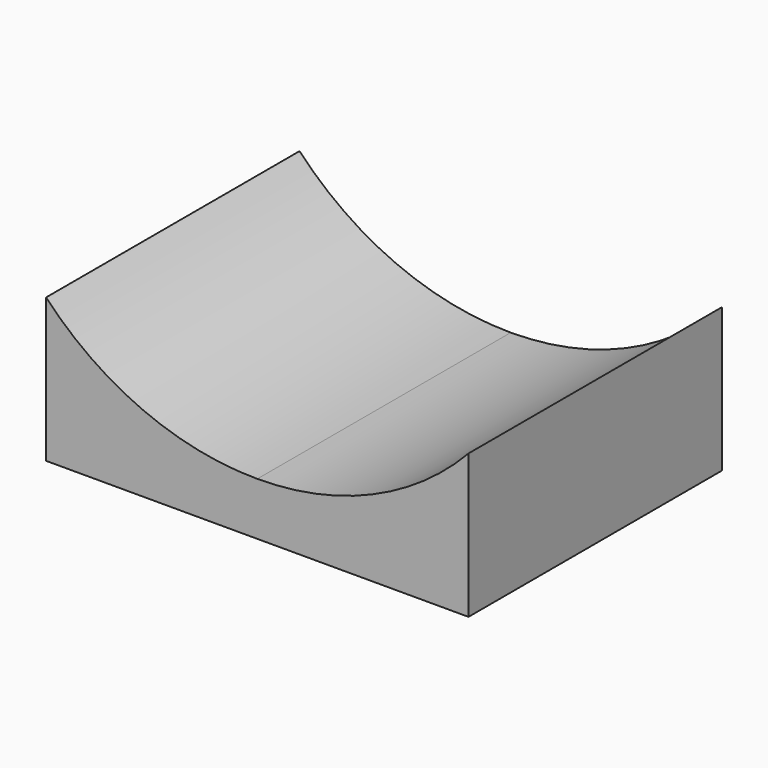
from build123d import *

# Parameters (mm, degrees)
F1_DEPTH = 38.1


with BuildPart() as f1:
    # F0 (on Front) → F1 (new body)
    with BuildSketch(Plane.XZ):
        with BuildLine():
            Line((0, 17.304276), (0, 0))
            Line((0, 0), (25.4, 0))
            Line((25.4, 0), (25.4, 6.35))
            ThreePointArc((25.4, 6.35), (11.569272, 9.205286), (0, 17.304276))
        make_face()
        with BuildLine():
            Line((25.4, 6.35), (25.4, 0))
            Line((25.4, 0), (50.8, 0))
            Line((50.8, 0), (50.8, 17.304276))
            ThreePointArc((50.8, 17.304276), (39.230728, 9.205286), (25.4, 6.35))
        make_face()
    extrude(amount=F1_DEPTH)


solid = f1.part
